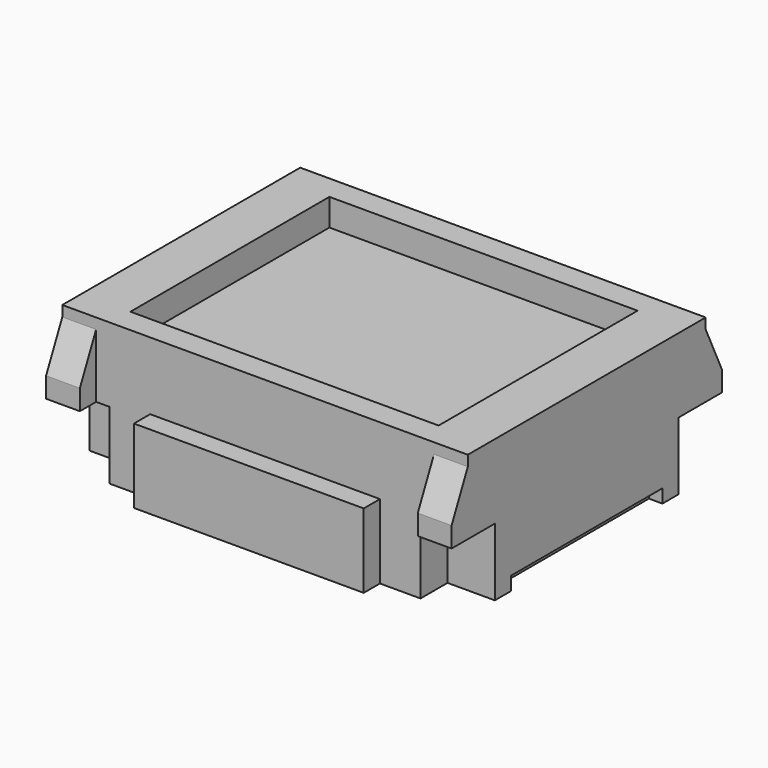
from build123d import *

# Parameters (mm, degrees)
SKETCH028_W                   = 3
SKETCH028_H                   = 2.5
PAD017_DEPTH                  = 1.05
POCKET010_DEPTH               = 0.15
SKETCH031_W                   = 0.35
SKETCH031_H                   = 0.5
POCKET012_DEPTH               = 0.25
POCKET010_MIRRORED012_2_DEPTH = 0.15
SKETCH031_MIRRORED012_2_W     = 0.35
SKETCH031_MIRRORED012_2_H     = 0.5
POCKET012_MIRRORED012_2_DEPTH = 0.25
POCKET011_DEPTH               = 9.588645
POCKET011_DEPTH_BACK          = 9.588645
SKETCH039_W                   = 0.1
SKETCH039_H                   = 1.4
POCKET013_DEPTH               = 0.1
SKETCH040_W                   = 2.28
SKETCH040_H                   = 1.84
POCKET014_DEPTH               = 0.2


with BuildPart() as part:
    # Sketch028 → Pad017 (new body)
    with BuildSketch(Plane.XY):
        Rectangle(SKETCH028_W, SKETCH028_H)
    extrude(amount=PAD017_DEPTH)

    # Sketch029 (on Face1 of Pad017) → Pocket010 (cut)
    with BuildSketch(Plane.XZ.offset(1.25)):
        Polygon((-1.5, 0), (-0.85, 0), (-0.85, 0.55), (0, 0.55), (0, 1.05), (-1.25, 1.05), (-1.25, 0.5), (-1.5, 0.5), align=None)
    pocket010 = extrude(amount=-POCKET010_DEPTH, mode=Mode.SUBTRACT)

    # Sketch031 (on Face8 of Pocket010) → Pocket012 (cut)
    with BuildSketch(Plane.XZ.offset(1.1)):
        with Locations((-1.325, 0.25)):
            Rectangle(SKETCH031_W, SKETCH031_H)
    pocket012 = extrude(amount=-POCKET012_DEPTH, mode=Mode.SUBTRACT)

    # Sketch029 Mirrored012 2 → Pocket010 Mirrored012 2 (cut)
    with BuildSketch(Plane(origin=(0, -1.25, 0), x_dir=(-1, 0, 0), z_dir=(0, 1, 0))):
        Polygon((-1.5, 0), (-0.85, 0), (-0.85, 0.55), (0, 0.55), (0, 1.05), (-1.25, 1.05), (-1.25, 0.5), (-1.5, 0.5), align=None)
    pocket010_mirrored012_2 = extrude(amount=POCKET010_MIRRORED012_2_DEPTH, mode=Mode.SUBTRACT)

    # Sketch031 Mirrored012 2 → Pocket012 Mirrored012 2 (cut)
    with BuildSketch(Plane(origin=(0, -1.1, 0), x_dir=(-1, 0, 0), z_dir=(0, 1, 0))):
        with Locations((-1.325, 0.25)):
            Rectangle(SKETCH031_MIRRORED012_2_W, SKETCH031_MIRRORED012_2_H)
    pocket012_mirrored012_2 = extrude(amount=POCKET012_MIRRORED012_2_DEPTH, mode=Mode.SUBTRACT)

    # Mirrored013: Pocket010, Pocket012, Pocket010 Mirrored012 2, Pocket012 Mirrored012 2 across XZ
    add(pocket010.mirror(Plane.XZ), mode=Mode.SUBTRACT)
    add(pocket012.mirror(Plane.XZ), mode=Mode.SUBTRACT)
    add(pocket010_mirrored012_2.mirror(Plane.XZ), mode=Mode.SUBTRACT)
    add(pocket012_mirrored012_2.mirror(Plane.XZ), mode=Mode.SUBTRACT)

    # Sketch030 → Pocket011 (cut, two sides)
    with BuildSketch(Plane.YZ) as pocket011_sk:
        Polygon((-1.1, 1.05), (-1.25, 1.05), (-1.25, 0.65), (-1.1, 0.971676), align=None)
    pocket011 = extrude(amount=-POCKET011_DEPTH, mode=Mode.SUBTRACT) + extrude(pocket011_sk.sketch, amount=POCKET011_DEPTH_BACK, mode=Mode.SUBTRACT)

    # Mirrored014: Pocket011 across Sketch030 V_Axis
    add(pocket011.mirror(Plane(origin=(0, 0, 0), x_dir=(1, 0, 0), z_dir=(0, 1, 0))), mode=Mode.SUBTRACT)

    # Sketch039 → Pocket013 (cut)
    with BuildSketch(Plane.XY):
        with Locations((1.45, 0)):
            Rectangle(SKETCH039_W, SKETCH039_H)
        with Locations((-1.45, 0)):
            Rectangle(SKETCH039_W, SKETCH039_H)
    extrude(amount=POCKET013_DEPTH, mode=Mode.SUBTRACT)

    # Sketch040 (on Face14 of Pocket013) → Pocket014 (cut)
    with BuildSketch(Plane.XY.offset(1.05)):
        Rectangle(SKETCH040_W, SKETCH040_H)
    extrude(amount=-POCKET014_DEPTH, mode=Mode.SUBTRACT)


solid = part.part
